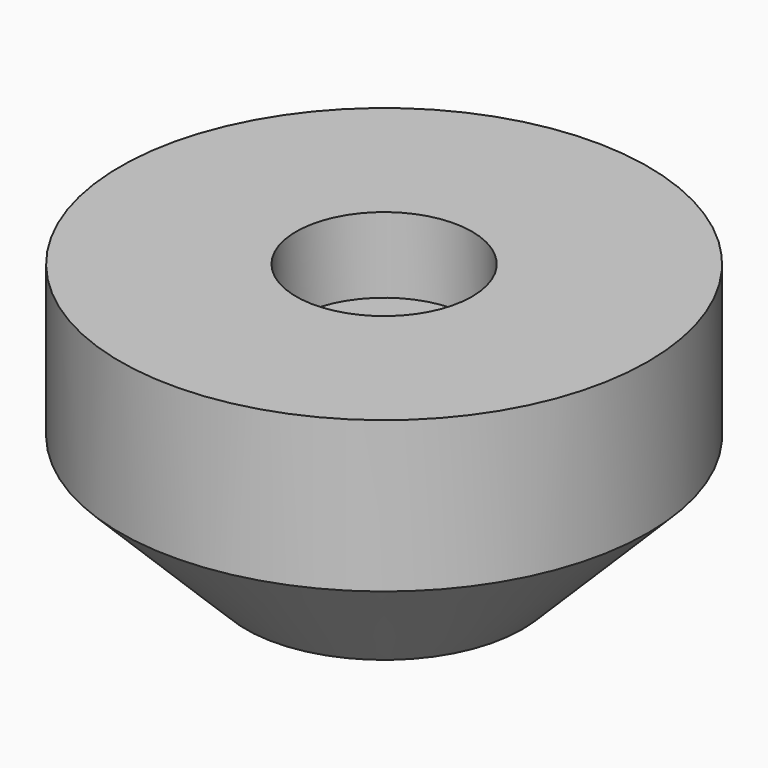
from build123d import *

# Parameters (mm, degrees)
F0_R     = 10.5
F1_DEPTH = 11
F2_R     = 3.5
F3_DEPTH = 3
F4_SIZE  = 5


with BuildPart() as f1:
    # F0 (on Top) → F1 (new body)
    with BuildSketch(Plane.XY):
        Circle(F0_R)
    extrude(amount=F1_DEPTH)

    # F2 (on face) → F3 (cut)
    with BuildSketch(Plane.XY.offset(11)):
        Circle(F2_R)
    extrude(amount=-F3_DEPTH, mode=Mode.SUBTRACT)

    # F4
    f4_edges = [f1.edges().sort_by_distance(p)[0] for p in [
        (-10.5, 0, 0),
    ]]
    chamfer(f4_edges, length=F4_SIZE)


solid = f1.part
